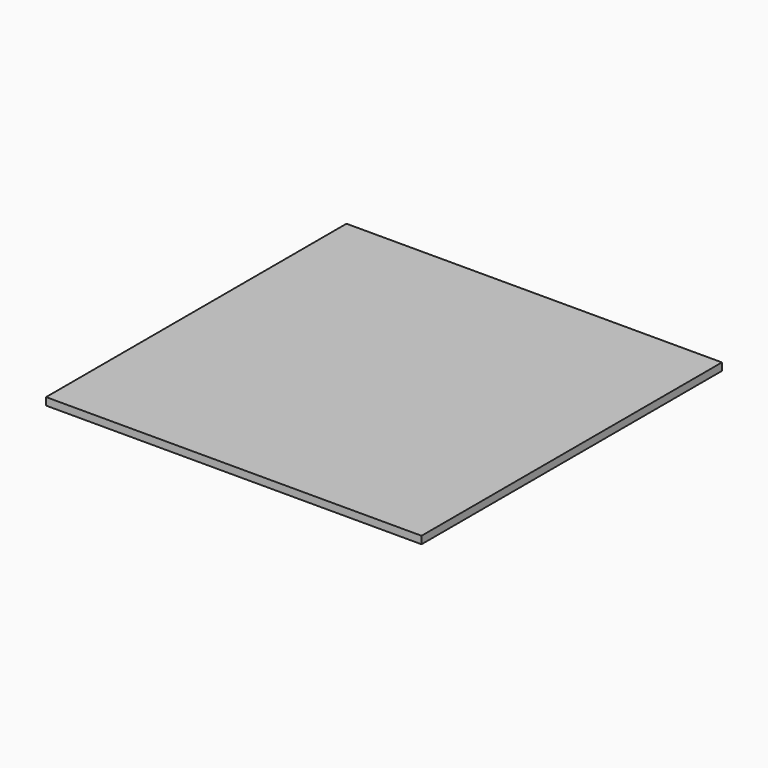
from build123d import *

# Parameters (mm, degrees)
F0_W = 1000
F0_H = 1000


with BuildPart() as f2:
    # F2: sweep along a path in F1
    with BuildLine(Plane.XZ) as f2_path:
        Line((0, 0), (0, 20))
    # F0 (on Top) → F2 (sweep)
    with BuildSketch(Plane.XY):
        with Locations((500, 500)):
            Rectangle(F0_W, F0_H)
    sweep(path=f2_path.line)


solid = f2.part
